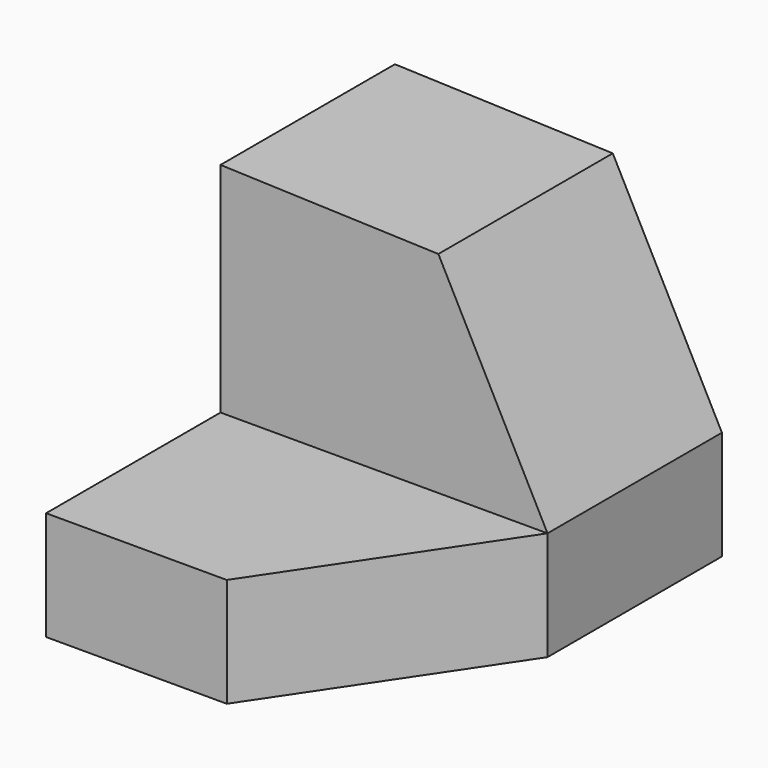
from build123d import *

# Parameters (mm, degrees)
F1_DEPTH = 25.4
F2_W     = 38.1
F2_H     = 12.7
F3_DEPTH = 25.4
F5_DEPTH = 25.4


with BuildPart() as f1:
    # F0 (on Front) → F1 (new body)
    with BuildSketch(Plane.XZ):
        Polygon((-33.318336, 49.470062), (-58.702985, 50.353006), (-58.702985, 12.253006), (-20.602985, 12.253006), (-20.602985, 24.953006), align=None)
    extrude(amount=F1_DEPTH)

    # F2 (on face) → F3 (join)
    with BuildSketch(Plane.XZ.offset(25.4)):
        with Locations((-39.652985, 18.603006)):
            Rectangle(F2_W, F2_H)
    extrude(amount=F3_DEPTH)

    # F4 (on face) → F5 (cut)
    with BuildSketch(Plane.XY.offset(24.953006)):
        Polygon((-20.602985, -50.8), (-20.602985, -25.4), (-37.649736, -50.8), align=None)
    extrude(amount=-F5_DEPTH, mode=Mode.SUBTRACT)


solid = f1.part
